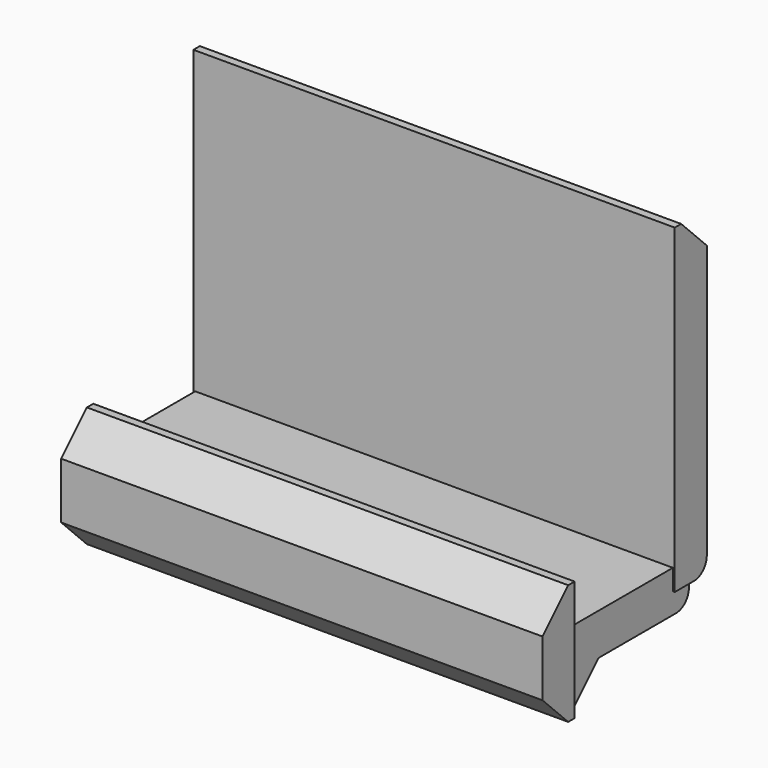
from build123d import *

# Parameters (mm, degrees)
F0_W     = 76.2
F0_H     = 6.35
F1_DEPTH = 50.8
F2_W     = 75.6192132831
F2_H     = 6.5861893818
F3_DEPTH = 25.4
F4_R     = 2.54
F5_SIZE  = 5.08
F7_DEPTH = 9.525
F9_SIZE  = 5.08


with BuildPart() as f1:
    # F0 (on Top) → F1 (new body)
    with BuildSketch(Plane.XY):
        Rectangle(F0_W, F0_H)
    extrude(amount=F1_DEPTH)

    # F2 (on Front) → F3 (join)
    with BuildSketch(Plane.XZ):
        Rectangle(F2_W, F2_H)
    extrude(amount=F3_DEPTH)

    # F4
    f4_edges = [f1.edges().sort_by_distance(p)[0] for p in [
        (0, 0, -3.293095),
        (0, 3.175, 0),
    ]]
    fillet(f4_edges, radius=F4_R)

    # F5
    f5_edges = [f1.edges().sort_by_distance(p)[0] for p in [
        (0, 3.175, 50.8),
    ]]
    chamfer(f5_edges, length=F5_SIZE)


with BuildPart() as f1_1:
    # F6: moved
    add(f1.part.moved(Location((0, 26.162, 0))))

    # F0 (on Top) → F7 (join, symmetric)
    with BuildSketch(Plane.XY):
        Rectangle(F0_W, F0_H)
    extrude(amount=F7_DEPTH, both=True)


with BuildPart() as f1_2:
    # F8: moved
    add(f1_1.part.moved(Location((0, -11.176, 0))))

    # F9
    f9_edges = [f1_2.edges().sort_by_distance(p)[0] for p in [
        (0, -8.001, -3.293095),
        (0, -14.351, -9.525),
        (0, -14.351, 9.525),
    ]]
    chamfer(f9_edges, length=F9_SIZE)


solid = f1_2.part
